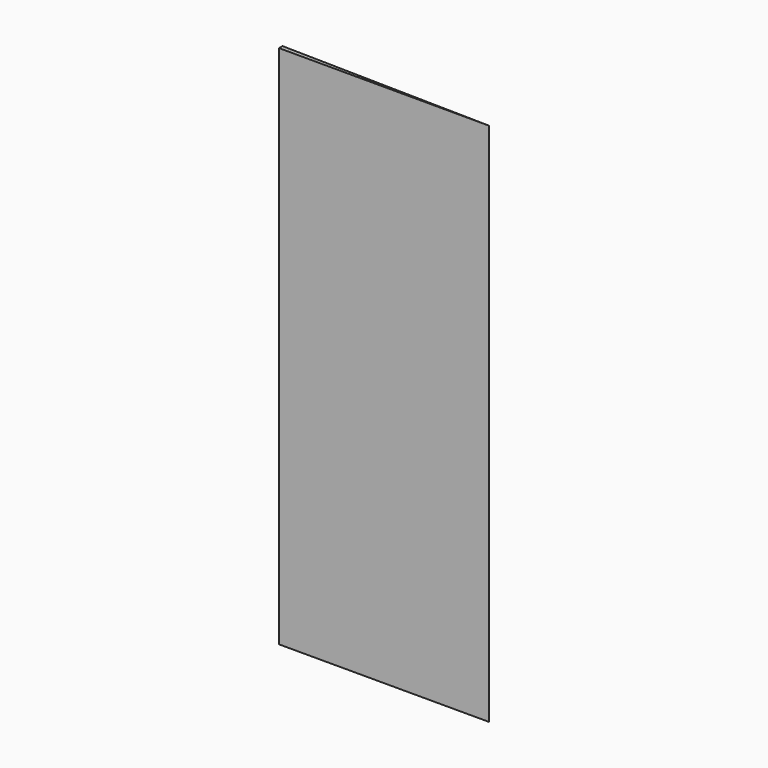
from build123d import *

# Parameters (mm, degrees)
F2_W     = 1219.2
F2_H     = 3048
F0_DEPTH = 25.4
F3_DEPTH = 3048


with BuildPart() as f0:
    # F2 (on Front) → F0 (new body)
    with BuildSketch(Plane.XZ):
        Rectangle(F2_W, F2_H)
    extrude(amount=F0_DEPTH)

    # F1 (on face) → F3 (cut)
    with BuildSketch(Plane(origin=(0, 0, -1524), x_dir=(1, 0, 0), z_dir=(0, 0, -1))):
        Polygon((609.6, 0), (609.6, 25.4), (-609.6, 0), align=None)
    extrude(amount=-F3_DEPTH, mode=Mode.SUBTRACT)


solid = f0.part
